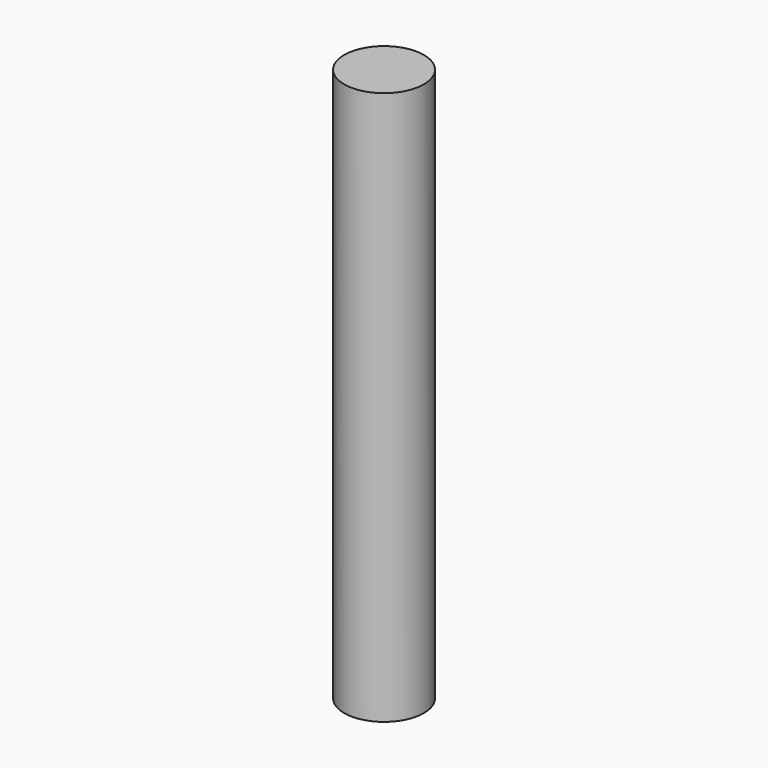
from build123d import *

# Parameters (mm, degrees)
CYLINDER_R     = 1.0795
CYLINDER_DEPTH = 15


with BuildPart() as part:
    # Cylinder → Cylinder (new body)
    with BuildSketch(Plane.XY.offset(-2.5)):
        Circle(CYLINDER_R)
    extrude(amount=CYLINDER_DEPTH)


solid = part.part
